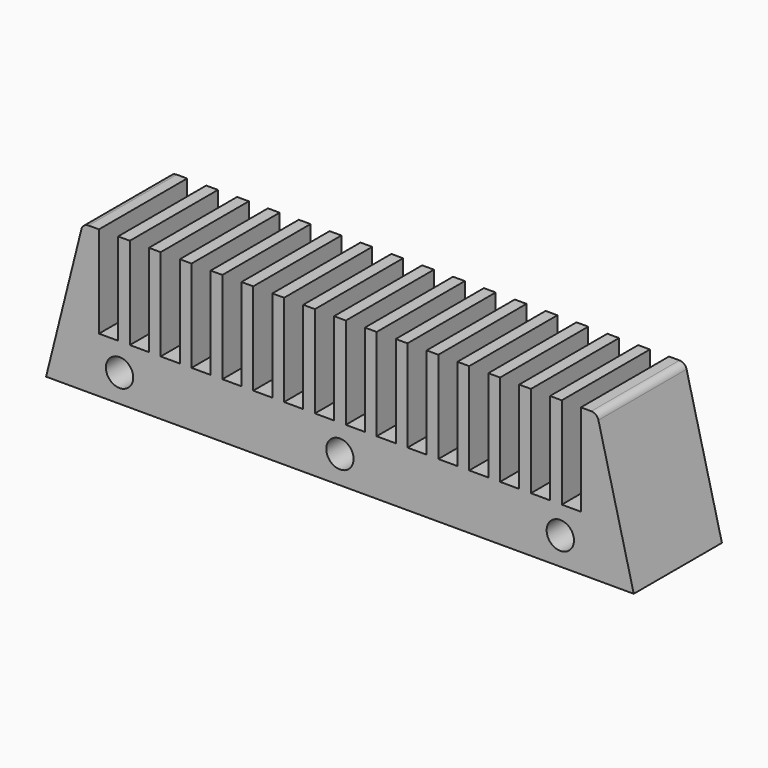
from build123d import *

# Parameters (mm, degrees)
F0_R     = 4.7244
F1_DEPTH = 38.1
F2_R     = 2.54


with BuildPart() as f1:
    # F0 (on Front) → F1 (new body)
    with BuildSketch(Plane.XZ):
        Polygon((18.288, 50.8), (12.7, 50.8), (0, 0), (203.2, 0), (190.5, 50.8), (184.912, 50.8), (184.912, 19.05), (178.308, 19.05), (178.308, 50.8), (174.244, 50.8), (174.244, 19.05), (167.64, 19.05), (167.64, 50.8), (163.576, 50.8), (163.576, 19.05), (156.972, 19.05), (156.972, 50.8), (152.908, 50.8), (152.908, 19.05), (146.304, 19.05), (146.304, 50.8), (142.24, 50.8), (142.24, 19.05), (135.636, 19.05), (135.636, 50.8), (131.572, 50.8), (131.572, 19.05), (124.968, 19.05), (124.968, 50.8), (120.904, 50.8), (120.904, 19.05), (114.3, 19.05), (114.3, 50.8), (110.236, 50.8), (110.236, 19.05), (103.632, 19.05), (103.632, 50.8), (99.568, 50.8), (99.568, 19.05), (92.964, 19.05), (92.964, 50.8), (88.9, 50.8), (88.9, 19.05), (82.296, 19.05), (82.296, 50.8), (78.232, 50.8), (78.232, 19.05), (71.628, 19.05), (71.628, 50.8), (67.564, 50.8), (67.564, 19.05), (60.96, 19.05), (60.96, 50.8), (56.896, 50.8), (56.896, 19.05), (50.292, 19.05), (50.292, 50.8), (46.228, 50.8), (46.228, 19.05), (39.624, 19.05), (39.624, 50.8), (35.56, 50.8), (35.56, 19.05), (28.956, 19.05), (28.956, 50.8), (24.892, 50.8), (24.892, 19.05), (18.288, 19.05), align=None)
        with Locations((25.4, 9.525)):
            Circle(F0_R, mode=Mode.SUBTRACT)
        with Locations((101.6, 9.525)):
            Circle(F0_R, mode=Mode.SUBTRACT)
        with Locations((177.8, 9.525)):
            Circle(F0_R, mode=Mode.SUBTRACT)
    extrude(amount=-F1_DEPTH)

    # F2
    f2_edges = [f1.edges().sort_by_distance(p)[0] for p in [
        (190.5, 19.05, 50.8),
        (12.7, 19.05, 50.8),
    ]]
    fillet(f2_edges, radius=F2_R)


solid = f1.part
